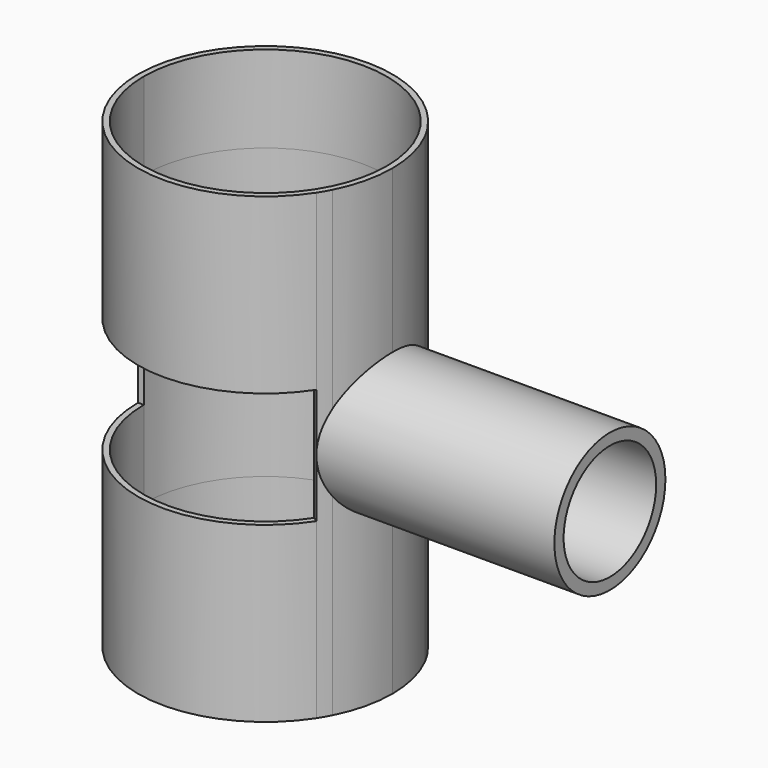
from build123d import *

# Parameters (mm, degrees)
F1_DEPTH = 20
F2_DEPTH = 5
F4_DEPTH = 12.5


with BuildPart() as f1:
    # F0 (on Top) → F1 (new body, symmetric)
    with BuildSketch(Plane.XY):
        with BuildLine():
            Line((10.5, 0), (11, 0))
            ThreePointArc((11, 0), (10.695268783, 2.5712303784), (9.7979589711, 5))
            ThreePointArc((9.7979589711, 5), (9.5218884242, 5.5075984637), (9.2195444573, 6))
            ThreePointArc((9.2195444573, 6), (-3.129297922, 10.5454964091), (-11, 0))
            Line((-11, 0), (-10.5, 0))
            ThreePointArc((-10.5, 0), (0, 10.5), (10.5, 0))
        make_face()
        with BuildLine():
            ThreePointArc((-11, 0), (-3.129297922, -10.5454964091), (9.2195444573, -6))
            Line((9.2195444573, -6), (8.8004742547, -5.7272727273))
            ThreePointArc((8.8004742547, -5.7272727273), (-2.9870571074, -10.0661556633), (-10.5, 0))
            Line((-10.5, 0), (-11, 0))
        make_face()
        with BuildLine():
            ThreePointArc((9.7979589711, -5), (10.695268783, -2.5712303784), (11, 0))
            Line((11, 0), (10.5, 0))
            ThreePointArc((10.5, 0), (10.0661556633, -2.9870571074), (8.8004742547, -5.7272727273))
            Line((8.8004742547, -5.7272727273), (9.2195444573, -6))
            ThreePointArc((9.2195444573, -6), (9.5218884242, -5.5075984637), (9.7979589711, -5))
        make_face()
    extrude(amount=F1_DEPTH, both=True)

    # F0 (on Top) → F2 (cut, symmetric)
    with BuildSketch(Plane.XY):
        with BuildLine():
            Line((0, 0), (-10.5, 0))
            ThreePointArc((-10.5, 0), (-2.9870571074, -10.0661556633), (8.8004742547, -5.7272727273))
            Line((8.8004742547, -5.7272727273), (0, 0))
        make_face()
        with BuildLine():
            Line((11, -6), (9.2195444573, -6))
            ThreePointArc((9.2195444573, -6), (-3.129297922, -10.5454964091), (-11, 0))
            Line((-11, 0), (-11, -15))
            Line((-11, -15), (11, -15))
            Line((11, -15), (11, -6))
        make_face()
        with BuildLine():
            ThreePointArc((-11, 0), (-3.129297922, -10.5454964091), (9.2195444573, -6))
            Line((9.2195444573, -6), (8.8004742547, -5.7272727273))
            ThreePointArc((8.8004742547, -5.7272727273), (-2.9870571074, -10.0661556633), (-10.5, 0))
            Line((-10.5, 0), (-11, 0))
        make_face()
    extrude(amount=F2_DEPTH, both=True, mode=Mode.SUBTRACT)

    # F0 (on Top) → F3 (revolve)
    with BuildSketch(Plane.XY):
        with BuildLine():
            ThreePointArc((9.2195444573, 6), (9.5218884242, 5.5075984637), (9.7979589711, 5))
            Line((9.7979589711, 5), (29.7979589711, 5))
            Line((29.7979589711, 5), (29.7979589711, 6))
            Line((29.7979589711, 6), (9.2195444573, 6))
        make_face()
    revolve(axis=Axis((0, 0, 0), (1, 0, 0)))

    # F0 (on Top) → F4 (cut, symmetric)
    with BuildSketch(Plane.XY):
        with BuildLine():
            Line((0, 0), (10.5, 0))
            ThreePointArc((10.5, 0), (0, 10.5), (-10.5, 0))
            Line((-10.5, 0), (0, 0))
        make_face()
        with BuildLine():
            Line((0, 0), (-10.5, 0))
            ThreePointArc((-10.5, 0), (-2.9870571074, -10.0661556633), (8.8004742547, -5.7272727273))
            Line((8.8004742547, -5.7272727273), (0, 0))
        make_face()
        with BuildLine():
            ThreePointArc((8.8004742547, -5.7272727273), (10.0661556633, -2.9870571074), (10.5, 0))
            Line((10.5, 0), (0, 0))
            Line((0, 0), (8.8004742547, -5.7272727273))
        make_face()
    extrude(amount=F4_DEPTH, both=True, mode=Mode.SUBTRACT)


solid = f1.part
